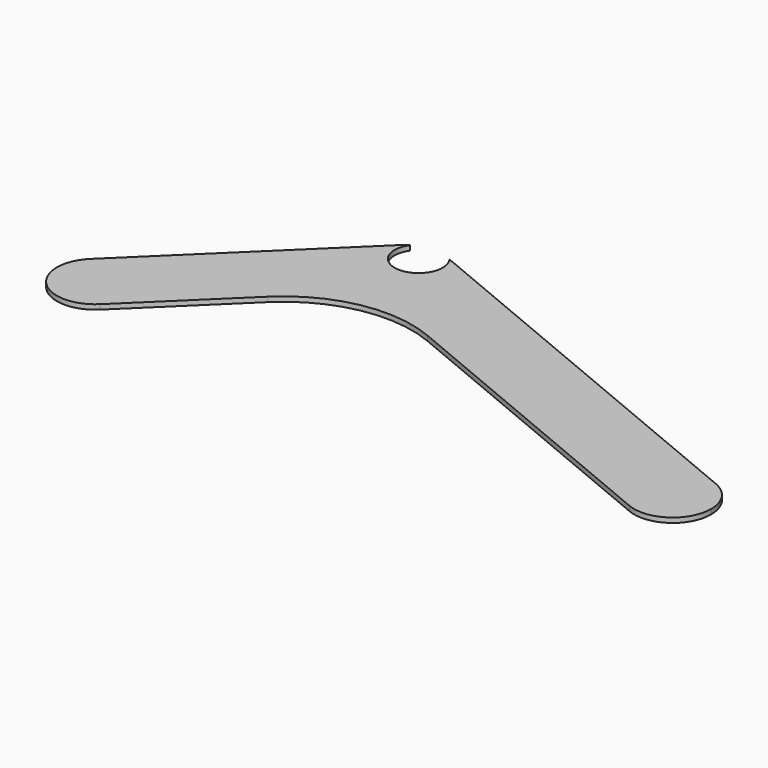
from build123d import *

# Parameters (mm, degrees)
F1_DEPTH = 1
F2_R     = 26.6168746284


with BuildPart() as f1:
    # F0 (on Top) → F1 (new body)
    with BuildSketch(Plane.XY):
        with BuildLine():
            ThreePointArc((-3.0769230769, 27.6153846154), (-7.8586483069, 33.502786993), (-5.5766271463, 40.7359593505))
            Line((-5.5766271463, 40.7359593505), (-41.5766271463, 5.7359593505))
            ThreePointArc((-41.5766271463, 5.7359593505), (-32.8865627653, 7.3692949856), (-28, 0))
            ThreePointArc((-28, 0), (-28.6307050144, -3.1134372347), (-30.4233728537, -5.7359593505))
            Line((-30.4233728537, -5.7359593505), (1.7935297348, 25.5860292772))
            Line((1.7935297348, 25.5860292772), (-3.0769230769, 27.6153846154))
        make_face()
        with BuildLine():
            ThreePointArc((-28, 0), (-32.8865627653, 7.3692949856), (-41.5766271463, 5.7359593505))
            ThreePointArc((-41.5766271463, 5.7359593505), (-41.7359593505, -5.5766271463), (-30.4233728537, -5.7359593505))
            ThreePointArc((-30.4233728537, -5.7359593505), (-28.6307050144, -3.1134372347), (-28, 0))
        make_face()
        with BuildLine():
            ThreePointArc((87.0769230769, 7.3846153846), (76.6153846154, 3.0769230769), (80.9230769231, -7.3846153846))
            ThreePointArc((80.9230769231, -7.3846153846), (88.4376015698, -6.6564023547), (92, 0))
            ThreePointArc((92, 0), (90.6564023547, 4.4376015698), (87.0769230769, 7.3846153846))
        make_face()
        with BuildLine():
            ThreePointArc((8, 35), (7.3692949856, 31.8865627653), (5.5766271463, 29.2640406495))
            Line((5.5766271463, 29.2640406495), (1.7935297348, 25.5860292772))
            Line((1.7935297348, 25.5860292772), (80.9230769231, -7.3846153846))
            ThreePointArc((80.9230769231, -7.3846153846), (76.6153846154, 3.0769230769), (87.0769230769, 7.3846153846))
            Line((87.0769230769, 7.3846153846), (4, 42))
            ThreePointArc((4, 42), (4.0458662961, 41.9378505602), (4.090767043, 41.875))
            ThreePointArc((4.090767043, 41.875), (6.9543560573, 38.9543560573), (8, 35))
        make_face()
        with BuildLine():
            ThreePointArc((-4.090767043, 41.875), (-4.8671327292, 41.3490959196), (-5.5766271463, 40.7359593505))
            ThreePointArc((-5.5766271463, 40.7359593505), (-7.8586483069, 33.502786993), (-3.0769230769, 27.6153846154))
            ThreePointArc((-3.0769230769, 27.6153846154), (1.497213007, 27.1413516931), (5.5766271463, 29.2640406495))
            ThreePointArc((5.5766271463, 29.2640406495), (7.3692949856, 31.8865627653), (8, 35))
            ThreePointArc((8, 35), (6.9543560573, 38.9543560573), (4.090767043, 41.875))
            ThreePointArc((4.090767043, 41.875), (4.7672757008, 40.5076744982), (5, 39))
            ThreePointArc((5, 39), (-1.5076744982, 34.2327242992), (-4.090767043, 41.875))
        make_face()
        with BuildLine():
            ThreePointArc((-3.0769230769, 27.6153846154), (-7.8586483069, 33.502786993), (-5.5766271463, 40.7359593505))
            Line((-5.5766271463, 40.7359593505), (-41.5766271463, 5.7359593505))
            ThreePointArc((-41.5766271463, 5.7359593505), (-32.8865627653, 7.3692949856), (-28, 0))
            ThreePointArc((-28, 0), (-28.6307050144, -3.1134372347), (-30.4233728537, -5.7359593505))
            Line((-30.4233728537, -5.7359593505), (1.7935297348, 25.5860292772))
            Line((1.7935297348, 25.5860292772), (-3.0769230769, 27.6153846154))
        make_face()
        with BuildLine():
            ThreePointArc((5.5766271463, 29.2640406495), (1.497213007, 27.1413516931), (-3.0769230769, 27.6153846154))
            Line((-3.0769230769, 27.6153846154), (1.7935297348, 25.5860292772))
            Line((1.7935297348, 25.5860292772), (5.5766271463, 29.2640406495))
        make_face()
    extrude(amount=F1_DEPTH)

    # F2
    f2_edges = [f1.edges().sort_by_distance(p)[0] for p in [
        (1.79353, 25.586029, 0.5),
    ]]
    fillet(f2_edges, radius=F2_R)


solid = f1.part
